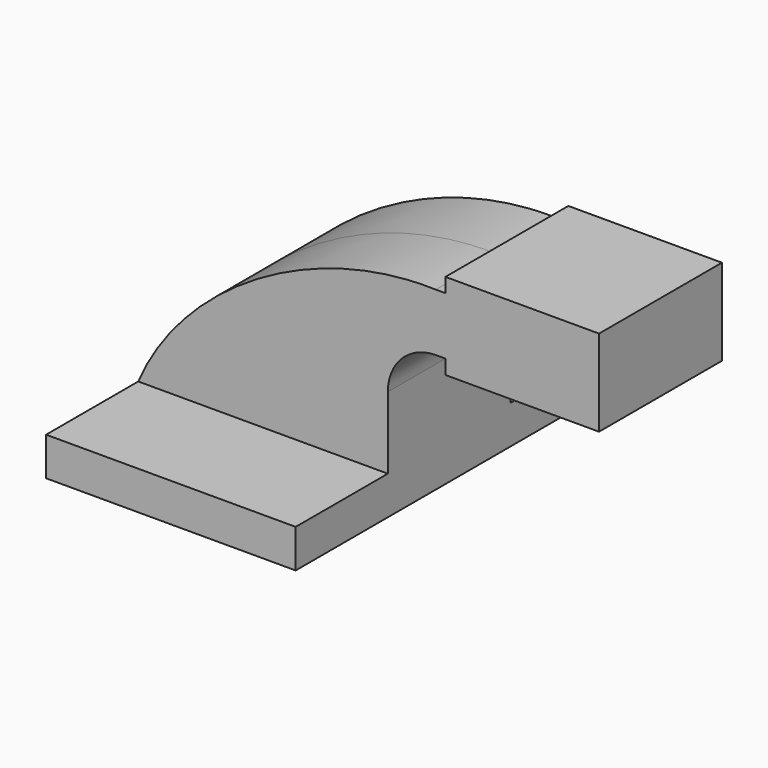
from build123d import *

# Parameters (mm, degrees)
F1_DEPTH = 63.5
F0_W     = 25.4
F0_H     = 4.7498
F2_DEPTH = 25.4


with BuildPart() as f1:
    # F0 (on Front) → F1 (new body, symmetric)
    with BuildSketch(Plane.XZ):
        Polygon((22.225, 6.35), (-41.275, 6.35), (-41.275, -6.35), (41.275, -6.35), (41.275, 6.35), align=None)
    extrude(amount=F1_DEPTH, both=True)

    # F0 (on Front) → F2 (join, symmetric)
    with BuildSketch(Plane.XZ):
        with BuildLine():
            add(Edge.make_bspline(
                [(-41.275, 6.35), (-26.468839, 40.955156), (16.811283, 66.350929), (57.15, 65.1002)],
                knots=[0, 0, 0, 0, 114.625768, 114.625768, 114.625768, 114.625768], degree=3))
            Line((-41.275, 6.35), (22.225, 6.35))
            Line((22.225, 6.35), (22.225, 30.1752))
            ThreePointArc((22.225, 30.1752), (32.454296, 54.870904), (57.15, 65.1002))
        make_face()
        Polygon((22.225, 6.35), (-41.275, 6.35), (-41.275, -6.35), (41.275, -6.35), (41.275, 6.35), align=None)
        with BuildLine():
            Line((22.225, 30.1752), (22.225, 6.35))
            Line((22.225, 6.35), (41.275, 6.35))
            Line((41.275, 6.35), (41.275, 30.1752))
            ThreePointArc((41.275, 30.1752), (45.92468, 41.40052), (57.15, 46.0502))
            Line((57.15, 46.0502), (60.325, 46.0502))
            Line((60.325, 46.0502), (60.325, 65.1002))
            Line((60.325, 65.1002), (57.15, 65.1002))
            ThreePointArc((57.15, 65.1002), (32.454296, 54.870904), (22.225, 30.1752))
        make_face()
        Polygon((85.725, 65.1002), (60.325, 65.1002), (60.325, 46.0502), (60.325, 41.275), (111.125, 41.275), (111.125, 69.85), (85.725, 69.85), align=None)
        with Locations((73.025, 67.4751)):
            Rectangle(F0_W, F0_H)
    extrude(amount=F2_DEPTH, both=True)


solid = f1.part
